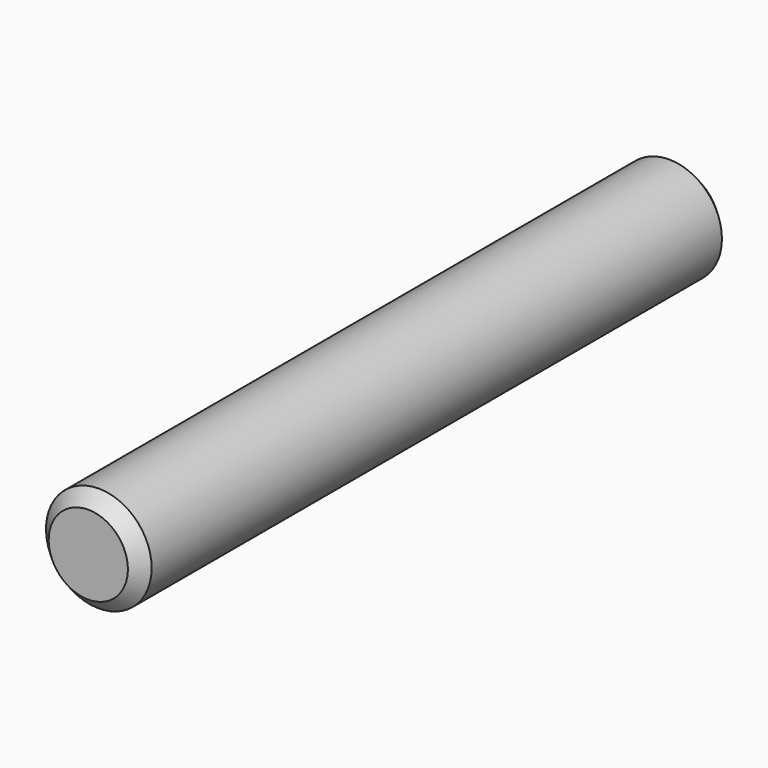
from build123d import *

# Parameters (mm, degrees)
SKETCH_R  = 2.5
PAD_DEPTH = 17.5


with BuildPart() as part:
    # Sketch → Pad (new body, symmetric)
    with BuildSketch(Plane.XZ):
        Circle(SKETCH_R)
    extrude(amount=PAD_DEPTH, both=True)

    # Sketch001 → Groove (revolve, cut)
    with BuildSketch(Plane.YZ):
        Polygon((-17.5, 4.5), (17.5, 4.5), (17.5, 1.875), (16.875, 2.5), (-16.875, 2.5), (-17.5, 1.875), align=None)
    revolve(axis=Axis((0, 0, 0), (0, 1, 0)), mode=Mode.SUBTRACT)


solid = part.part
